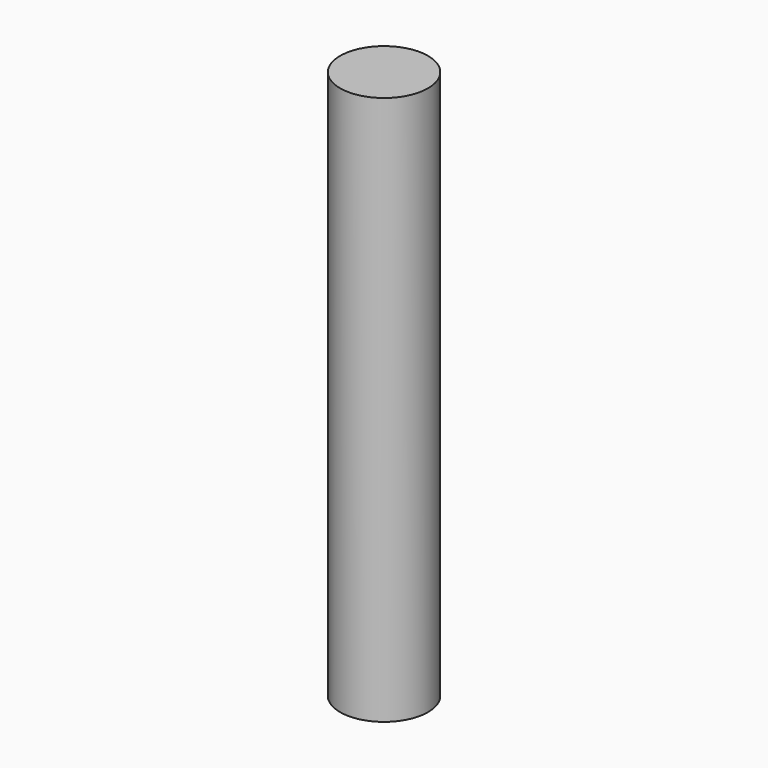
from build123d import *

# Parameters (mm, degrees)
SKETCH_R  = 4
PAD_DEPTH = 50


with BuildPart() as part:
    # Sketch → Pad (new body)
    with BuildSketch(Plane.XY):
        Circle(SKETCH_R)
    extrude(amount=PAD_DEPTH)


solid = part.part
